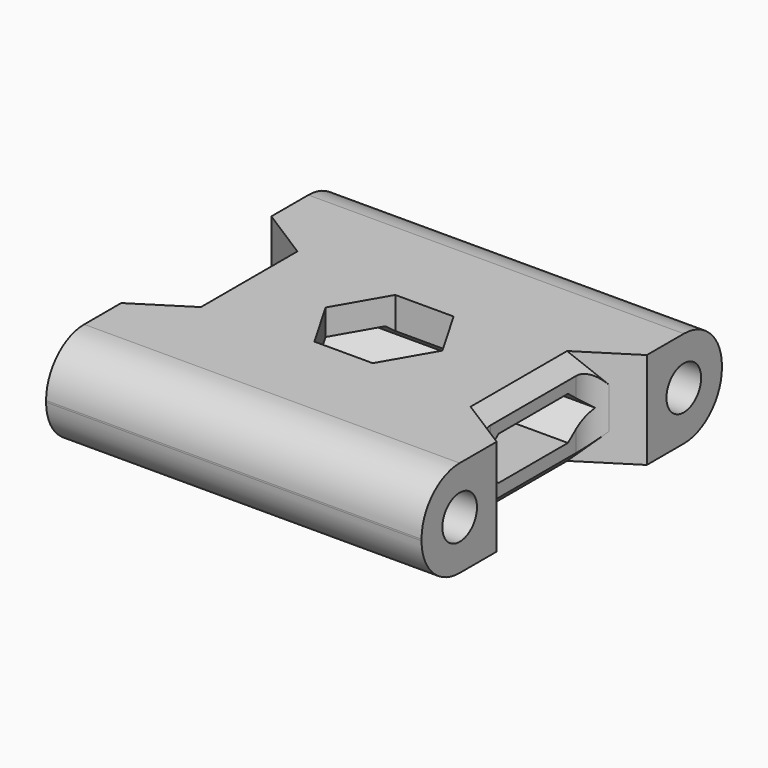
from build123d import *

# Parameters (mm, degrees)
F1_DEPTH = 1.675
F2_SIZE  = 0.5
F3_R     = 1.65
F4_R     = 1
F5_R     = 0.75
F6_DEPTH = 13.001


with BuildPart() as f1:
    # F0 (on Top) → F1 (new body, symmetric)
    with BuildSketch(Plane.XY):
        Polygon((6.5, 6.5), (-6.5, 6.5), (-6.5, 3.25), (-5.168492, 2.405253), (-5.168492, -2.405253), (-6.5, -3.25), (-6.5, -6.5), (6.5, -6.5), (6.5, -3.25), (5.168492, -2.405253), (5.168492, 2.405253), (6.5, 3.25), align=None)
        Polygon((-2.021299, 0), (-1.01065, 1.750496), (1.01065, 1.750496), (2.021299, 0), (1.01065, -1.750496), (-1.01065, -1.750496), align=None, mode=Mode.SUBTRACT)
    extrude(amount=F1_DEPTH, both=True)

    # F2
    f2_edges = [f1.edges().sort_by_distance(p)[0] for p in [
        (-5.168492, 0, 1.675),
        (5.168492, 0, 1.675),
        (-5.168492, 0, -1.675),
        (5.168492, 0, -1.675),
    ]]
    chamfer(f2_edges, length=F2_SIZE)

    # F3
    f3_edges = [f1.edges().sort_by_distance(p)[0] for p in [
        (0, 6.5, 1.675),
        (0, 6.5, -1.675),
        (0, -6.5, 1.675),
        (0, -6.5, -1.675),
    ]]
    fillet(f3_edges, radius=F3_R)

    # F4
    f4_edges = [f1.edges().sort_by_distance(p)[0] for p in [
        (5.168492, 2.405253, 0),
        (5.168492, -2.405253, 0),
        (-5.168492, -2.405253, 0),
        (-5.168492, 2.405253, 0),
    ]]
    fillet(f4_edges, radius=F4_R)

    # F5 (on face) → F6 (cut, through all)
    with BuildSketch(Plane.YZ.offset(6.5)):
        with Locations((-4.85, 0.025)):
            Circle(F5_R)
        with Locations((4.85, 0.025)):
            Circle(F5_R)
        Polygon((-1.499787, 0.775), (-2.422007, 0.025), (-1.499787, -0.725), (1.499787, -0.725), (2.442251, 0.025), (1.499787, 0.775), align=None)
    extrude(amount=-F6_DEPTH, mode=Mode.SUBTRACT)


solid = f1.part
